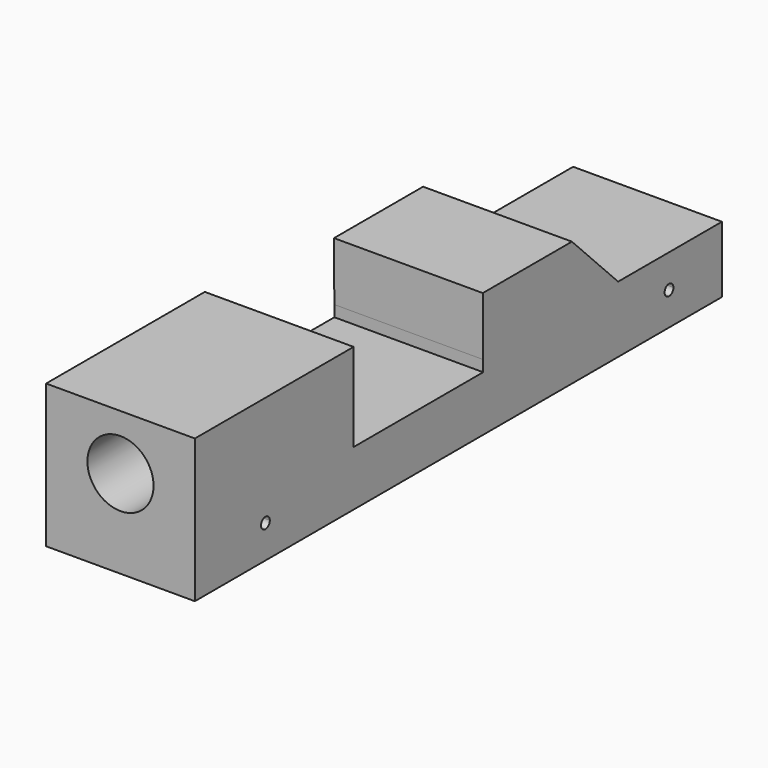
from build123d import *

# Parameters (mm, degrees)
F1_DEPTH = 21.43125
F2_R     = 9.525
F3_DEPTH = 50.8
F5_DEPTH = 42.8635


with BuildPart() as f1:
    # F0 (on Right) → F1 (new body, symmetric)
    with BuildSketch(Plane.YZ):
        Polygon((-152.4, 69.85), (-152.4, 0), (152.4, 0), (152.4, 19.05), align=None)
    extrude(amount=F1_DEPTH, both=True)

    # F2 (on face) → F3 (cut)
    with BuildSketch(Plane.XZ.offset(152.4)):
        with Locations((0, 34.925)):
            Circle(F2_R)
    extrude(amount=-F3_DEPTH, mode=Mode.SUBTRACT)

    # F4 (on face) → F5 (intersect, through all)
    with BuildSketch(Plane.YZ.offset(21.43125)):
        Polygon((-16.6460395549, 45.5284491181), (-48.7253032625, 45.5284491181), (-48.6101253426, 28.6297574639), (-48.5881119967, 25.4), (-48.7253032625, 25.4), (-95.2500006139, 25.4), (-95.2500006139, 50.7999987721), (-152.4, 50.7999987721), (-152.4, 9.525), (-127, 9.525), (18.3262217238, 9.525), (37.3762217238, 9.525), (37.3762217238, 28.6172106862), (0, 28.6172106862), align=None)
        with BuildLine():
            ThreePointArc((-125.4125, 19.05), (-125.8774679849, 17.9274679849), (-127, 17.4625))
            ThreePointArc((-127, 17.4625), (-128.1225320151, 20.1725320151), (-125.4125, 19.05))
        make_face(mode=Mode.SUBTRACT)
        with BuildLine():
            ThreePointArc((19.9137217238, 19.05), (19.448753739, 17.9274679849), (18.3262217238, 17.4625))
            ThreePointArc((18.3262217238, 17.4625), (17.2036897087, 20.1725320151), (19.9137217238, 19.05))
        make_face(mode=Mode.SUBTRACT)
    extrude(amount=-F5_DEPTH, mode=Mode.INTERSECT)


solid = f1.part
